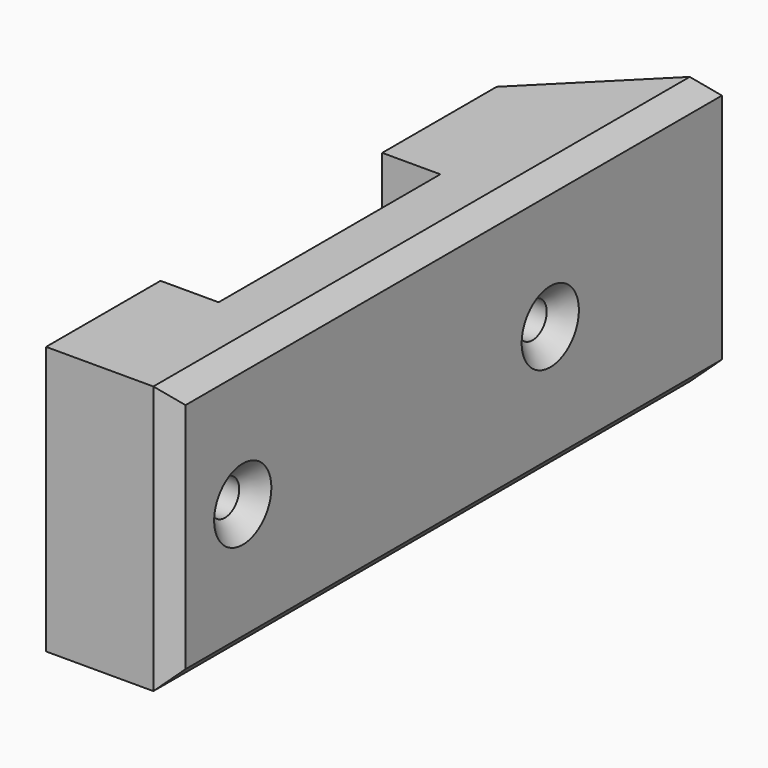
from build123d import *

# Parameters (mm, degrees)
PAD003_DEPTH    = 7.5
SKETCH005_R     = 1
POCKET001_DEPTH = 7.001
CHAMFER003_SIZE = 1
CHAMFER007_SIZE = 1


with BuildPart() as part:
    # Sketch004 → Pad003 (new body, symmetric)
    with BuildSketch(Plane.XY):
        Polygon((0, 0), (0, -8), (3.25, -8), (3.25, -23.5), (0, -23.5), (0, -31.5), (7, -31.5), (7, 7), align=None)
    extrude(amount=PAD003_DEPTH, both=True)

    # Sketch005 (on Face7 of Pad003) → Pocket001 (cut, through all)
    with BuildSketch(Plane.YZ.offset(7)):
        with Locations((-26.5, 0)):
            Circle(SKETCH005_R)
        with Locations((-5, 0)):
            Circle(SKETCH005_R)
    extrude(amount=-POCKET001_DEPTH, mode=Mode.SUBTRACT)

    # Chamfer003
    chamfer003_edges = [part.edges().sort_by_distance(p)[0] for p in [
        (7, -27.5, 0),
        (7, -6, 0),
    ]]
    chamfer(chamfer003_edges, length=CHAMFER003_SIZE)

    # Chamfer007
    chamfer007_edges = [part.edges().sort_by_distance(p)[0] for p in [
        (7, -12.25, -7.5),
        (7, -31.5, 0),
        (7, -12.25, 7.5),
    ]]
    chamfer(chamfer007_edges, length=CHAMFER007_SIZE)


solid = part.part
